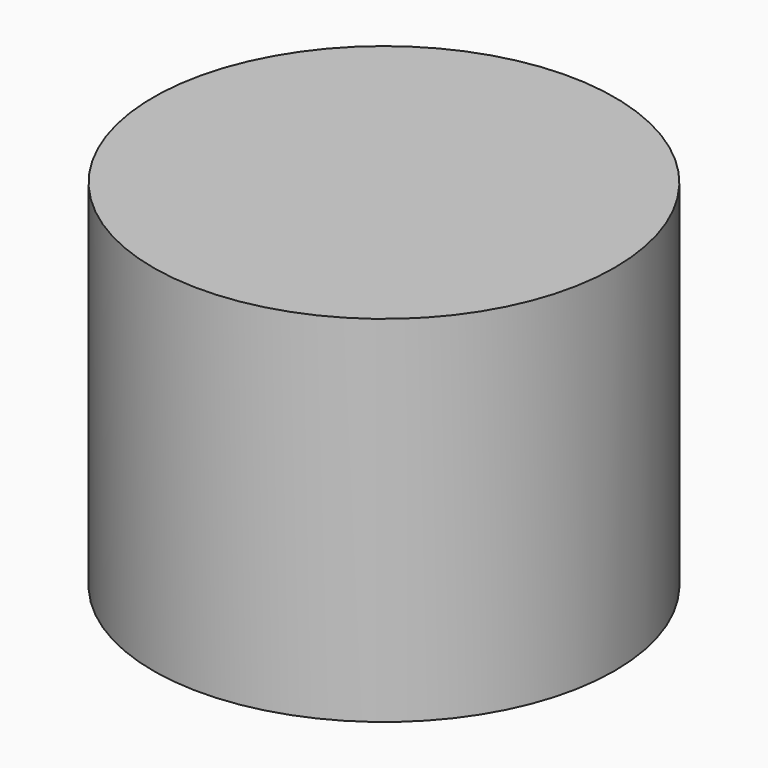
from build123d import *

# Parameters (mm, degrees)
F0_R     = 13
F1_DEPTH = 20
F2_R     = 11.5
F3_DEPTH = 17
F4_R     = 5


with BuildPart() as f1:
    # F0 (on Top) → F1 (new body)
    with BuildSketch(Plane.XY):
        Circle(F0_R)
    extrude(amount=F1_DEPTH)

    # F2 (on face) → F3 (cut)
    with BuildSketch(Plane(origin=(0, 0, 0), x_dir=(1, 0, 0), z_dir=(0, 0, -1))):
        Circle(F2_R)
    extrude(amount=-F3_DEPTH, mode=Mode.SUBTRACT)

    # F4
    f4_edges = [f1.edges().sort_by_distance(p)[0] for p in [
        (-11.5, 0, 17),
    ]]
    fillet(f4_edges, radius=F4_R)


solid = f1.part
